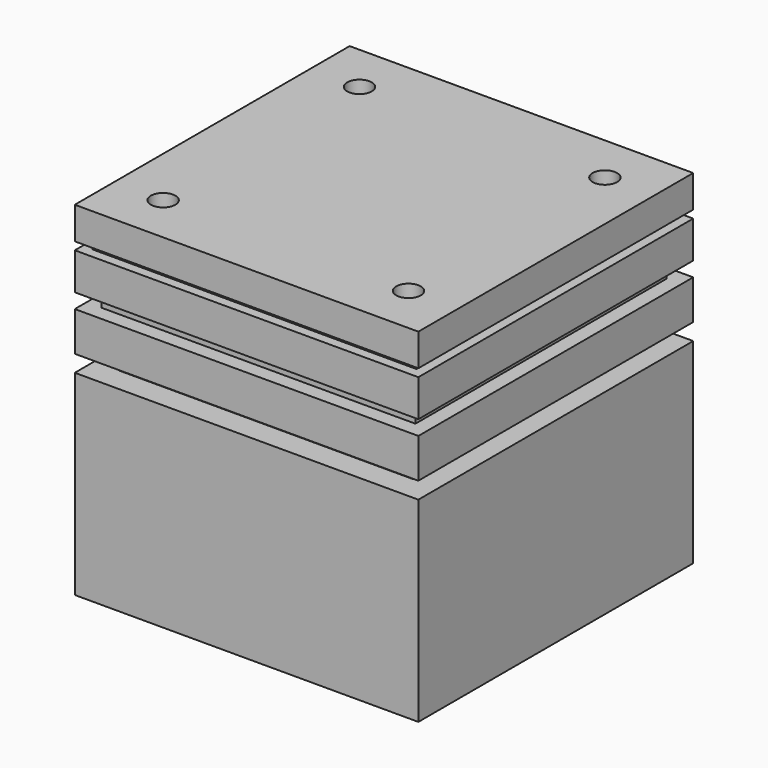
from build123d import *

# Parameters (mm, degrees)
F1_DEPTH = 35
F3_D     = 6
F3_DEPTH = 20
F3_TIP   = 1.8025818571
F5_DEPTH = 35
F7_D     = 2.5
F7_DEPTH = 7.5
F7_TIP   = 0.7510757738


with BuildPart() as f1:
    # F0 (on Front) → F1 (new body)
    with BuildSketch(Plane.XZ):
        Polygon((0, 19.931551069), (0, 0), (35, 0), (35, 19.931551069), (32.5, 19.931551069), (32.5, 21.631551069), (35, 21.631551069), (35, 25.6460141391), (33.5, 25.6460141391), (33.5, 27.1460141391), (35, 27.1460141391), (35, 30.9151932597), (34, 30.9151932597), (34, 31.7151932597), (35, 31.7151932597), (35, 35), (0, 35), (0, 31.7151932597), (1, 31.7151932597), (1, 30.9151932597), (0, 30.9151932597), (0, 27.1460141391), (1.5, 27.1460141391), (1.5, 25.6460141391), (0, 25.6460141391), (0, 21.631551069), (2.5, 21.631551069), (2.5, 19.931551069), align=None)
    extrude(amount=F1_DEPTH)

    # F3
    with Locations(Plane(origin=(0, 0, 0), x_dir=(1, 0, 0), z_dir=(0, 0, -1))):
        with Locations((10, 17.5), (25, 17.5)):
            Hole(F3_D / 2, depth=F3_DEPTH)
            with Locations((0, 0, -(F3_DEPTH + F3_TIP / 2))):  # 118° drill point
                Cone(0, F3_D / 2, F3_TIP, mode=Mode.SUBTRACT)

    # F4 (on face) → F5 (intersect)
    with BuildSketch(Plane.YZ.offset(35)):
        Polygon((-35, 19.931551069), (-35, 0), (0, 0), (0, 19.931551069), (-2.5, 19.931551069), (-2.5, 21.631551069), (0, 21.631551069), (0, 25.6460141391), (-1.5, 25.6460141391), (-1.5, 27.1460141391), (0, 27.1460141391), (0, 30.9151932597), (-1, 30.9151932597), (-1, 31.7151932597), (0, 31.7151932597), (0, 35), (-35, 35), (-35, 31.7151932597), (-34, 31.7151932597), (-34, 30.9151932597), (-35, 30.9151932597), (-35, 27.1460141391), (-33.5, 27.1460141391), (-33.5, 25.6460141391), (-35, 25.6460141391), (-35, 21.631551069), (-32.5, 21.631551069), (-32.5, 19.931551069), align=None)
    extrude(amount=-F5_DEPTH, mode=Mode.INTERSECT)

    # F7
    with Locations(Plane.XY.offset(35)):
        with Locations((30, -30), (30, -5), (5, -5), (5, -30)):
            Hole(F7_D / 2, depth=F7_DEPTH)
            with Locations((0, 0, -(F7_DEPTH + F7_TIP / 2))):  # 118° drill point
                Cone(0, F7_D / 2, F7_TIP, mode=Mode.SUBTRACT)


solid = f1.part
